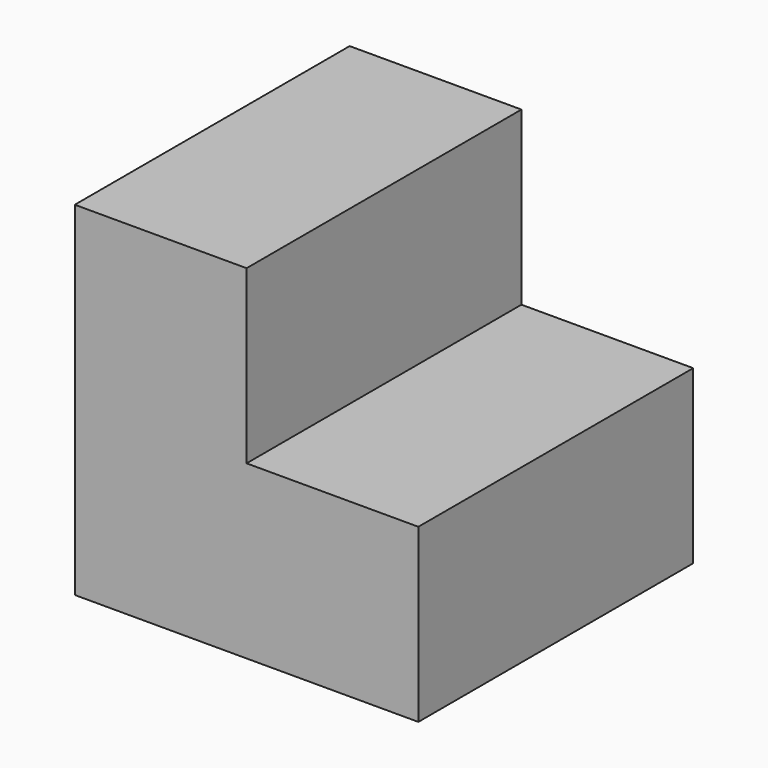
from build123d import *

# Parameters (mm, degrees)
F0_W     = 25.4
F0_H     = 25.4
F1_DEPTH = 25.4
F2_DEPTH = 50.8
F3_DEPTH = 25.3746


with BuildPart() as f1:
    # F0 (on Top) → F1 (new body)
    with BuildSketch(Plane.XY):
        with Locations((12.7, 12.7)):
            Rectangle(F0_W, F0_H)
        Polygon((25.4, 25.4), (25.4, 0), (50.8, 0), (50.8, 50.8), (25.4, 50.8), align=None)
        with Locations((12.7, 38.1)):
            Rectangle(F0_W, F0_H)
    extrude(amount=F1_DEPTH)

    # F0 (on Top) → F2 (join)
    with BuildSketch(Plane.XY):
        with Locations((12.7, 38.1)):
            Rectangle(F0_W, F0_H)
        with Locations((12.7, 12.7)):
            Rectangle(F0_W, F0_H)
    extrude(amount=F2_DEPTH)

    # F0 (on Top) → F3 (cut)
    with BuildSketch(Plane.XY):
        with Locations((12.7, 38.1)):
            Rectangle(F0_W, F0_H)
    extrude(amount=F3_DEPTH, mode=Mode.SUBTRACT)


solid = f1.part
